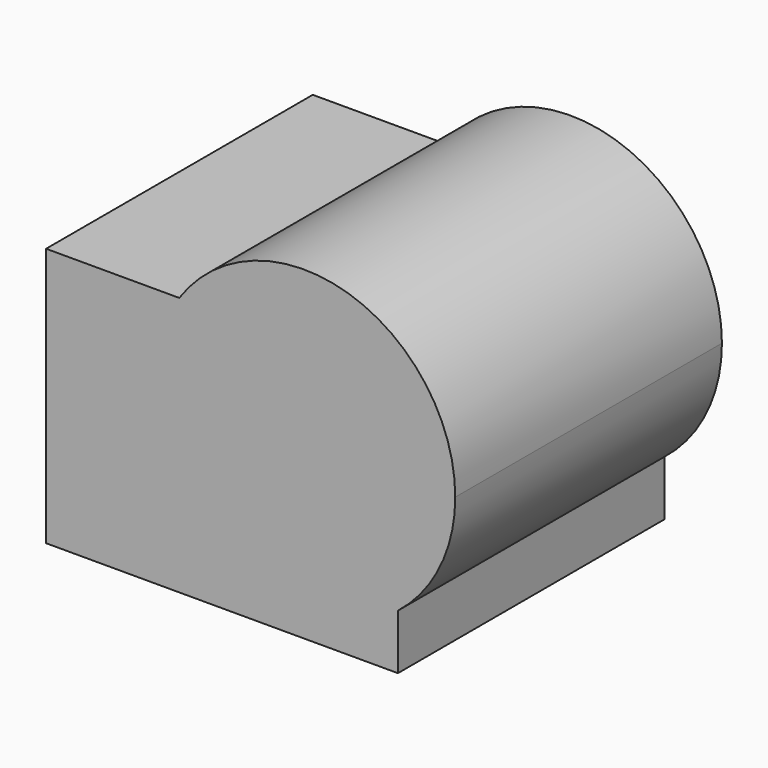
from build123d import *

# Parameters (mm, degrees)
F0_W     = 95
F0_H     = 90
F1_DEPTH = 70
F3_DEPTH = 90


with BuildPart() as f1:
    # F0 (on Top) → F1 (new body)
    with BuildSketch(Plane.XY):
        with Locations((-2.5399141014, 14.3061601868)):
            Rectangle(F0_W, F0_H)
        with Locations((-2.5399141014, 14.3061601868)):
            Rectangle(F0_W, F0_H)
    extrude(amount=F1_DEPTH)

    # F2 (on face) → F3 (join)
    with BuildSketch(Plane.XZ.offset(30.6938398132)):
        with BuildLine():
            ThreePointArc((44.9600858986, 14.8719497925), (56.3653364479, 29.1049888452), (60.4378009265, 46.8834638596))
            ThreePointArc((60.4378009265, 46.8834638596), (31.6970185026, 85.8918910248), (-14.0756563581, 70))
            Line((-14.0756563581, 70), (44.9600858986, 70))
            Line((44.9600858986, 70), (44.9600858986, 14.8719497925))
        make_face()
    extrude(amount=-F3_DEPTH)


solid = f1.part
